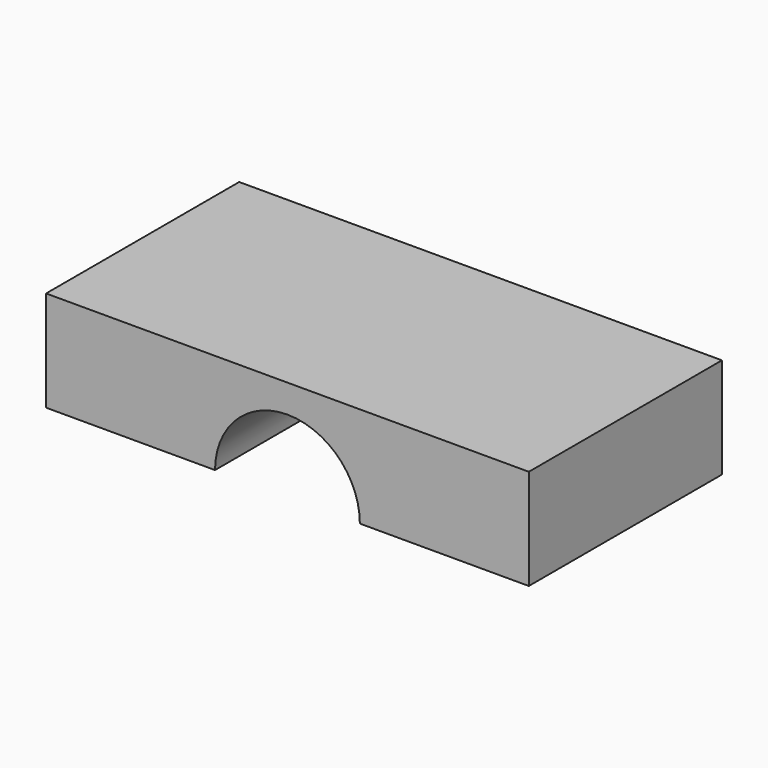
from build123d import *

# Parameters (mm, degrees)
F1_DEPTH = 600
F2_DEPTH = 500


with BuildPart() as f1:
    # F0 (on Front) → F1 (new body)
    with BuildSketch(Plane.XZ):
        with BuildLine():
            Line((600, -125), (600, 125))
            Line((600, 125), (-600, 125))
            Line((-600, 125), (-600, -125))
            Line((-600, -125), (-180, -125))
            ThreePointArc((-180, -125), (0, 55), (180, -125))
            Line((180, -125), (600, -125))
        make_face()
    extrude(amount=F1_DEPTH)

    # F0 (on Front) → F2 (join)
    with BuildSketch(Plane.XZ):
        with BuildLine():
            Line((600, -125), (600, 125))
            Line((600, 125), (-600, 125))
            Line((-600, 125), (-600, -125))
            Line((-600, -125), (-180, -125))
            ThreePointArc((-180, -125), (0, 55), (180, -125))
            Line((180, -125), (600, -125))
        make_face()
    extrude(amount=F2_DEPTH)


solid = f1.part
